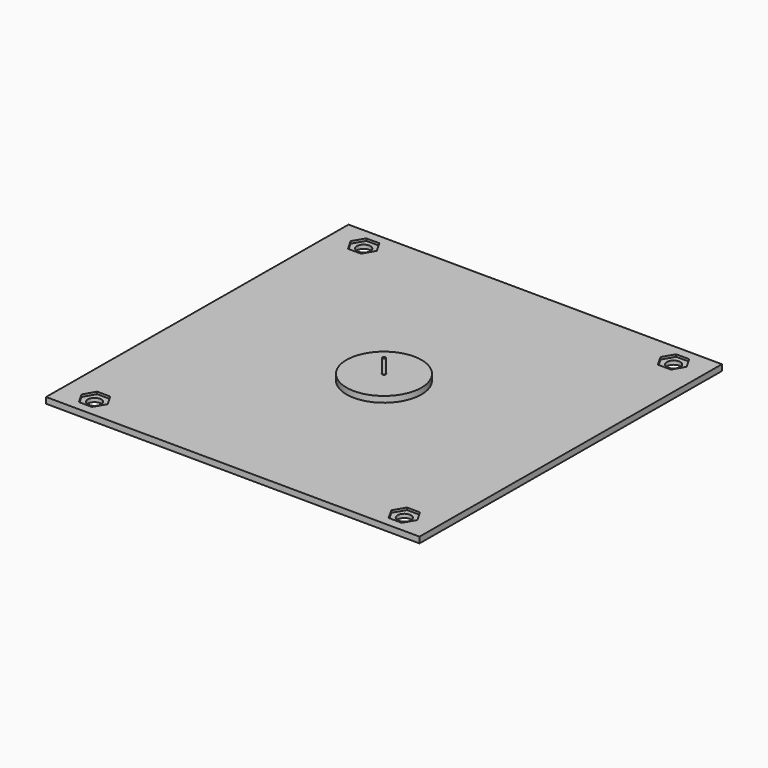
from build123d import *

# Parameters (mm, degrees)
F0_R     = 0.95
F1_DEPTH = 3.2
F0_R_2   = 3.6
F2_DEPTH = 2
F3_R     = 20
F3_R_2   = 0.95
F4_DEPTH = 3.2
F5_R     = 0.8
F6_DEPTH = 7.5


with BuildPart() as f1:
    # F0 (on Top) → F1 (new body)
    with BuildSketch(Plane.XY):
        Polygon((100.603239, 99.3931), (-99.3931, 100.603239), (-100.603239, -99.3931), (99.3931, -100.603239), align=None)
        Polygon((-87.073233, -94.474876), (-90.536488, -88.391632), (-86.999872, -82.350742), (-80, -82.393097), (-76.536744, -88.476341), (-80.073361, -94.517231), align=None, mode=Mode.SUBTRACT)
        Circle(F0_R, mode=Mode.SUBTRACT)
        Polygon((85.929844, -83.397106), (89.3931, -89.480351), (85.856484, -95.52124), (78.856612, -95.478885), (75.393356, -89.395641), (78.929972, -83.354751), align=None, mode=Mode.SUBTRACT)
        Polygon((-78.856612, 95.478885), (-75.393356, 89.395641), (-78.929972, 83.354751), (-85.929844, 83.397106), (-89.3931, 89.480351), (-85.856484, 95.52124), align=None, mode=Mode.SUBTRACT)
        Polygon((87.139983, 94.474472), (90.603239, 88.391228), (87.066623, 82.350338), (80.066751, 82.392693), (76.603495, 88.475937), (80.140112, 94.516827), align=None, mode=Mode.SUBTRACT)
    extrude(amount=F1_DEPTH)

    # F0 (on Top) → F2 (join)
    with BuildSketch(Plane.XY):
        Polygon((-86.999872, -82.350742), (-90.536488, -88.391632), (-87.073233, -94.474876), (-80.073361, -94.517231), (-76.536744, -88.476341), (-80, -82.393097), align=None)
        with Locations((-83.536616, -88.433986)):
            Circle(F0_R_2, mode=Mode.SUBTRACT)
        Polygon((-78.929972, 83.354751), (-75.393356, 89.395641), (-78.856612, 95.478885), (-85.856484, 95.52124), (-89.3931, 89.480351), (-85.929844, 83.397106), align=None)
        with Locations((-82.393228, 89.437996)):
            Circle(F0_R_2, mode=Mode.SUBTRACT)
        Polygon((85.856484, -95.52124), (89.3931, -89.480351), (85.929844, -83.397106), (78.929972, -83.354751), (75.393356, -89.395641), (78.856612, -95.478885), align=None)
        with Locations((82.393228, -89.437996)):
            Circle(F0_R_2, mode=Mode.SUBTRACT)
        Polygon((87.066623, 82.350338), (90.603239, 88.391228), (87.139983, 94.474472), (80.140112, 94.516827), (76.603495, 88.475937), (80.066751, 82.392693), align=None)
        with Locations((83.603367, 88.433582)):
            Circle(F0_R_2, mode=Mode.SUBTRACT)
    extrude(amount=F2_DEPTH)


with BuildPart() as f4:
    # F3 (on face) → F4 (new body)
    with BuildSketch(Plane.XY.offset(3.2)):
        Circle(F3_R)
        Circle(F3_R_2, mode=Mode.SUBTRACT)
    extrude(amount=F4_DEPTH)


with BuildPart() as f6:
    # F5 (on face) → F6 (new body)
    with BuildSketch(Plane.XY.offset(6.4)):
        Circle(F5_R)
    extrude(amount=F6_DEPTH)


solid = Compound([f1.part, f4.part, f6.part])
